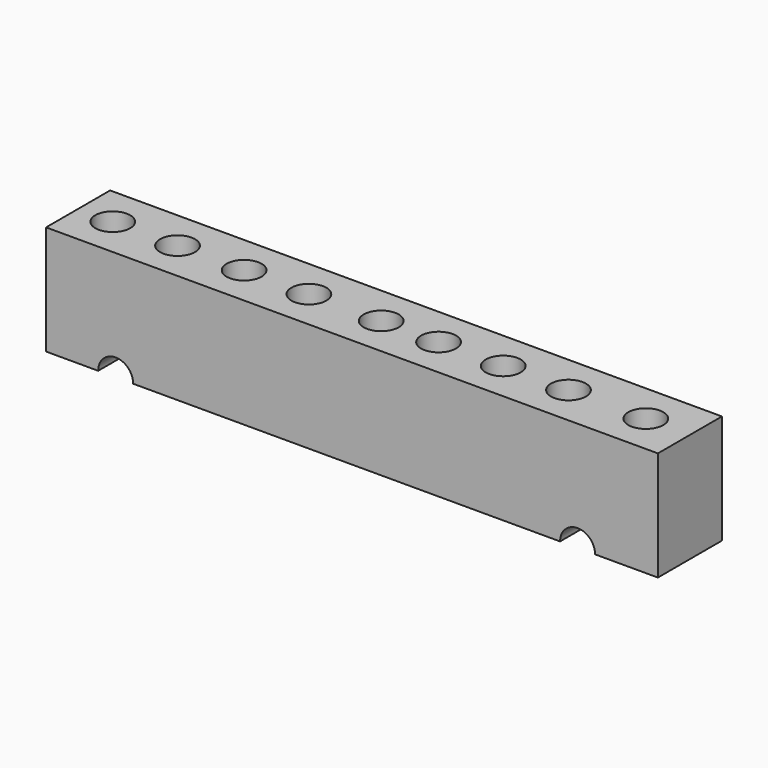
from build123d import *

# Parameters (mm, degrees)
F0_W     = 139.885172
F0_H     = 18.295985
F1_DEPTH = 25
F3_D     = 8
F5_D     = 8


with BuildPart() as f1:
    # F0 (on Top) → F1 (new body)
    with BuildSketch(Plane.XY):
        with Locations((0.641361, 9.147992)):
            Rectangle(F0_W, F0_H)
    extrude(amount=F1_DEPTH)

    # F3 (through all)
    with Locations(Plane.XY.offset(25)):
        with Locations((-61.372835, 9.147992), (-46.562072, 9.147992), (-31.341393, 9.147992), (-16.530629, 9.147992), (0, 9.147992), (13.117687, 9.147992), (27.901655, 9.147992), (42.819589, 9.147992), (60.49981, 9.147992)):
            Hole(F3_D / 2)

    # F5 (through all)
    with Locations(Plane(origin=(0, 18.295985, 0), x_dir=(-1, 0, 0), z_dir=(0, 1, 0))):
        with Locations((-52.215707, 0), (53.392045, 0)):
            Hole(F5_D / 2)


solid = f1.part
